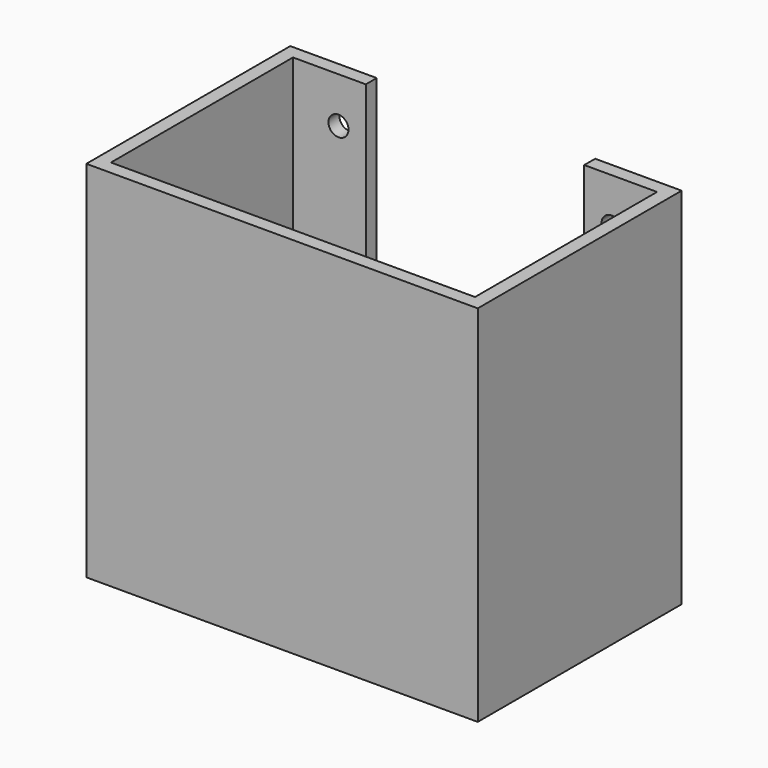
from build123d import *

# Parameters (mm, degrees)
F1_DEPTH = 40
F2_R     = 1.1
F3_DEPTH = 1.5


with BuildPart() as f1:
    # F0 (on Top) → F1 (new body)
    with BuildSketch(Plane.XY):
        Polygon((-12, 14), (-21.5, 14), (-21.5, -14), (21.5, -14), (21.5, 14), (12, 14), (12, 12.5), (20, 12.5), (20, -12.5), (-20, -12.5), (-20, 12.5), (-12, 12.5), align=None)
    extrude(amount=F1_DEPTH)

    # F2 (on face) → F3 (cut, through all)
    with BuildSketch(Plane(origin=(0, 14, 0), x_dir=(-1, 0, 0), z_dir=(0, 1, 0))):
        with Locations((-15, 35)):
            Circle(F2_R)
        with Locations((15, 35)):
            Circle(F2_R)
        with Locations((-15, 5)):
            Circle(F2_R)
        with Locations((15, 5)):
            Circle(F2_R)
    extrude(amount=-F3_DEPTH, mode=Mode.SUBTRACT)


solid = f1.part
